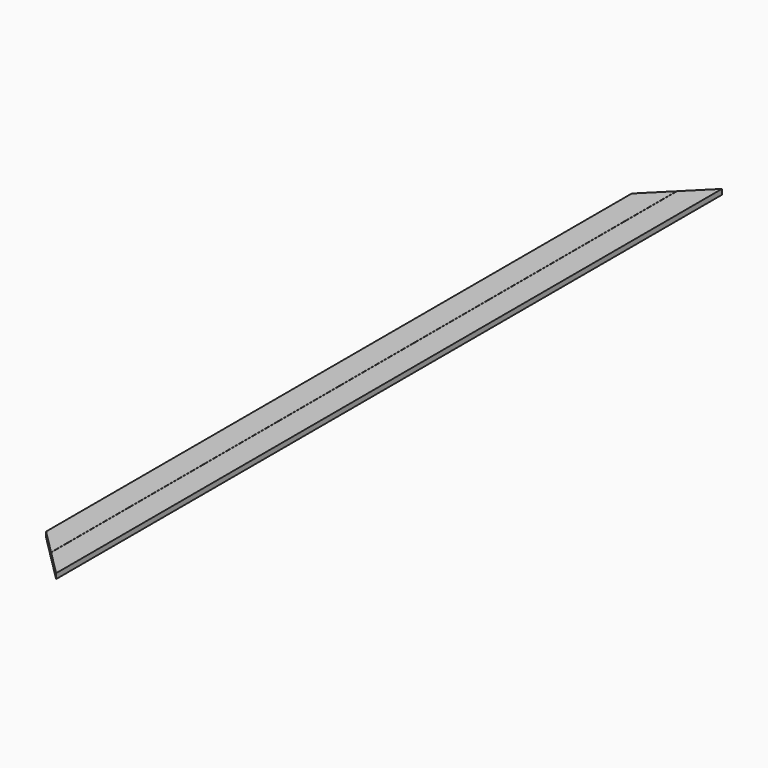
from build123d import *

# Parameters (mm, degrees)
F1_DEPTH = 25


with BuildPart() as f1:
    # F0 (on Top) → F1 (new body)
    with BuildSketch(Plane.XY):
        Polygon((4319.795261, 2215.51133), (4319.795261, 5971.648588), (4199.795261, 5851.648588), (4199.795261, 2335.51133), align=None)
        Polygon((4440.595261, 2094.71133), (4440.595261, 6092.448588), (4320.595261, 5972.448588), (4320.595261, 2214.71133), align=None)
    extrude(amount=-F1_DEPTH)


solid = f1.part
